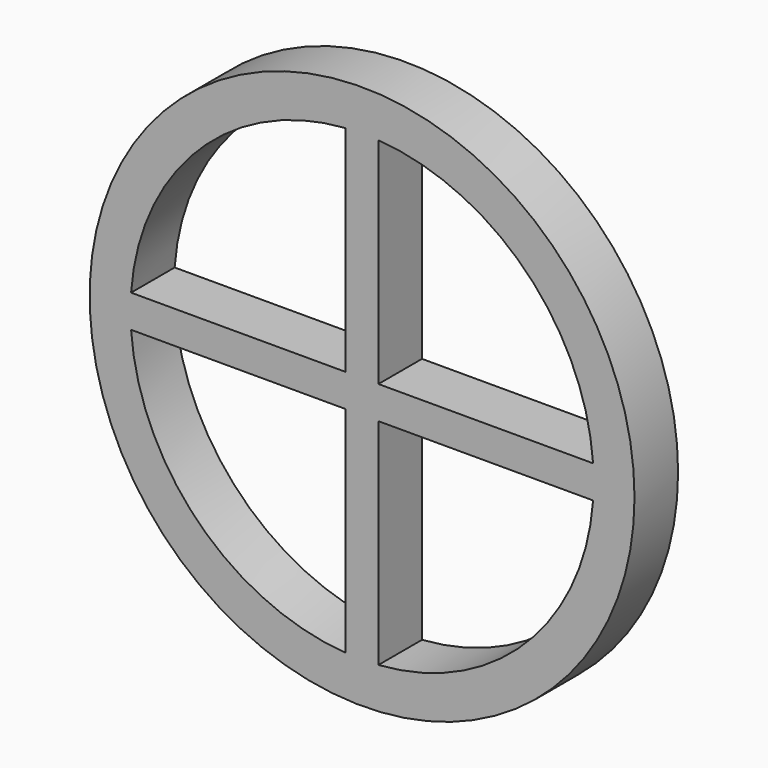
from build123d import *

# Parameters (mm, degrees)
F0_R     = 2.54
F0_W     = 0.1524
F0_H     = 0.0762
F0_W_2   = 0.1486954158
F0_W_3   = 0.3048
F1_DEPTH = 0.508


with BuildPart() as f1:
    # F0 (on Front) → F1 (new body)
    with BuildSketch(Plane.XZ):
        with Locations((2.54, 2.54)):
            Circle(F0_R)
        with BuildLine():
            ThreePointArc((4.6936144595, 2.6924), (4.6976531948, 2.616247564), (4.699, 2.54))
            ThreePointArc((4.699, 2.54), (4.6976531948, 2.463752436), (4.6936144595, 2.3876))
            ThreePointArc((4.6936144595, 2.3876), (4.0666435406, 1.0133564594), (2.6924, 0.3863855405))
            ThreePointArc((2.6924, 0.3863855405), (2.54, 0.381), (2.3876, 0.3863855405))
            ThreePointArc((2.3876, 0.3863855405), (1.0133564594, 1.0133564594), (0.3863855405, 2.3876))
            ThreePointArc((0.3863855405, 2.3876), (0.381, 2.54), (0.3863855405, 2.6924))
            ThreePointArc((0.3863855405, 2.6924), (1.0133564594, 4.0666435406), (2.3876, 4.6936144595))
            ThreePointArc((2.3876, 4.6936144595), (2.54, 4.699), (2.6924, 4.6936144595))
            ThreePointArc((2.6924, 4.6936144595), (4.0666435406, 4.0666435406), (4.6936144595, 2.6924))
        make_face(mode=Mode.SUBTRACT)
        Polygon((2.3876, 2.4638), (2.3876, 2.54), (2.3876, 2.6162), (2.3876, 2.6924), (2.3114, 2.6924), (2.3114, 2.3876), (2.3876, 2.3876), align=None)
        with BuildLine():
            Line((2.3114, 2.3876), (2.3114, 2.6924))
            Line((2.3114, 2.6924), (0.3863855405, 2.6924))
            ThreePointArc((0.3863855405, 2.6924), (0.381, 2.54), (0.3863855405, 2.3876))
            Line((0.3863855405, 2.3876), (2.3114, 2.3876))
        make_face()
        with BuildLine():
            Line((4.699, 2.54), (2.7686, 2.54))
            Line((2.7686, 2.54), (2.7686, 2.3876))
            Line((2.7686, 2.3876), (4.6936144595, 2.3876))
            ThreePointArc((4.6936144595, 2.3876), (4.6976531948, 2.463752436), (4.699, 2.54))
        make_face()
        Polygon((2.7686, 2.54), (2.6924, 2.54), (2.6924, 2.4638), (2.6924, 2.3876), (2.7686, 2.3876), align=None)
        Polygon((2.6924, 2.6162), (2.6924, 2.54), (2.7686, 2.54), (2.7686, 2.6924), (2.6924, 2.6924), align=None)
        with BuildLine():
            Line((2.7686, 2.6924), (2.7686, 2.54))
            Line((2.7686, 2.54), (4.699, 2.54))
            ThreePointArc((4.699, 2.54), (4.6976531948, 2.616247564), (4.6936144595, 2.6924))
            Line((4.6936144595, 2.6924), (2.7686, 2.6924))
        make_face()
        Polygon((2.3876, 2.6162), (2.54, 2.6162), (2.5437045842, 2.6162), (2.5437045842, 2.6924), (2.3876, 2.6924), align=None)
        with Locations((2.4638, 2.5781)):
            Rectangle(F0_W, F0_H)
        Polygon((2.6924, 2.54), (2.54, 2.54), (2.3876, 2.54), (2.3876, 2.4638), (2.6924, 2.4638), align=None)
        with Locations((2.6180522921, 2.6543)):
            Rectangle(F0_W_2, F0_H)
        with Locations((2.4638, 2.5781)):
            Rectangle(F0_W, F0_H)
        Polygon((2.3876, 2.6162), (2.54, 2.6162), (2.5437045842, 2.6162), (2.5437045842, 2.6924), (2.3876, 2.6924), align=None)
        Polygon((2.3876, 2.6162), (2.54, 2.6162), (2.5437045842, 2.6162), (2.5437045842, 2.6924), (2.3876, 2.6924), align=None)
        Polygon((2.6924, 2.54), (2.54, 2.54), (2.3876, 2.54), (2.3876, 2.4638), (2.6924, 2.4638), align=None)
        with Locations((2.54, 2.4257)):
            Rectangle(F0_W_3, F0_H)
        Polygon((2.54, 2.6162), (2.54, 2.54), (2.6924, 2.54), (2.6924, 2.6162), (2.5437045842, 2.6162), align=None)
        with BuildLine():
            Line((2.5437045842, 2.6924), (2.6924, 2.6924))
            Line((2.6924, 2.6924), (2.6924, 4.6936144595))
            ThreePointArc((2.6924, 4.6936144595), (2.54, 4.699), (2.3876, 4.6936144595))
            Line((2.3876, 4.6936144595), (2.3876, 2.6924))
            Line((2.3876, 2.6924), (2.5437045842, 2.6924))
        make_face()
        with BuildLine():
            Line((2.6924, 0.3863855405), (2.6924, 2.3876))
            Line((2.6924, 2.3876), (2.3876, 2.3876))
            Line((2.3876, 2.3876), (2.3876, 0.3863855405))
            ThreePointArc((2.3876, 0.3863855405), (2.54, 0.381), (2.6924, 0.3863855405))
        make_face()
    extrude(amount=F1_DEPTH)


solid = f1.part
